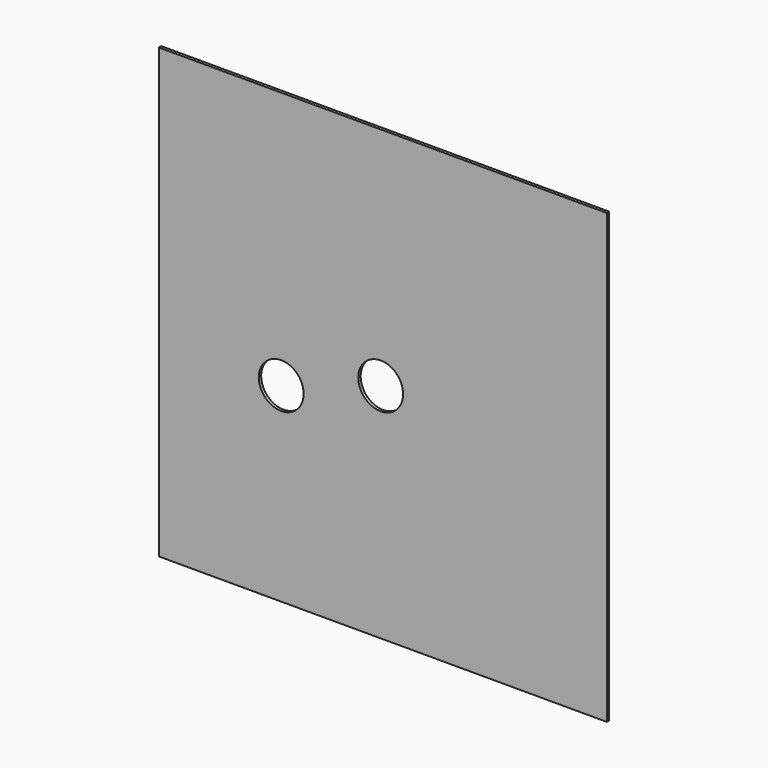
from build123d import *

# Parameters (mm, degrees)
F0_W     = 381
F0_H     = 381
F1_DEPTH = 2.54
F2_R     = 19.05
F3_DEPTH = 2.541


with BuildPart() as f1:
    # F0 (on Front) → F1 (new body)
    with BuildSketch(Plane.XZ):
        with Locations((1.796125, 1.474147)):
            Rectangle(F0_W, F0_H)
    extrude(amount=F1_DEPTH)

    # F2 (on face) → F3 (cut, through all)
    with BuildSketch(Plane.XZ.offset(2.54)):
        Circle(F2_R)
        with Locations((-84.602214, -27.307058)):
            Circle(F2_R)
    extrude(amount=-F3_DEPTH, mode=Mode.SUBTRACT)


solid = f1.part
